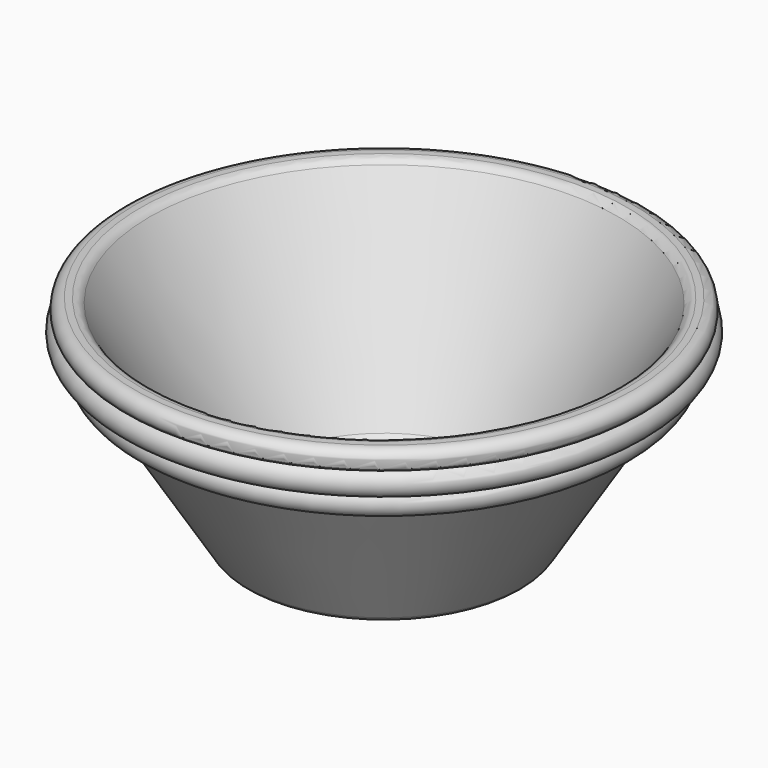
from build123d import *

# Parameters (mm, degrees)
F2_R = 5.08


with BuildPart() as f1:
    # F0 (on Front) → F1 (revolve)
    with BuildSketch(Plane.XZ):
        Polygon((0, 12.7), (0, 0), (63.5, 0), (107.4211733091, 70.2738772946), (114.1521598471, 81.0434557554), (114.8252585009, 82.1204136015), (121.556245039, 92.8899920624), (127, 101.6), (112.0235549529, 101.6), (56.4610549529, 12.7), align=None)
        with BuildLine():
            Line((121.556245039, 92.8899920624), (114.8252585009, 82.1204136015))
            ThreePointArc((114.8252585009, 82.1204136015), (123.5755410004, 84.1397095629), (121.556245039, 92.8899920624))
        make_face()
        with BuildLine():
            Line((114.1521598471, 81.0434557554), (107.4211733091, 70.2738772946))
            ThreePointArc((107.4211733091, 70.2738772946), (116.1714558086, 72.293173256), (114.1521598471, 81.0434557554))
        make_face()
    revolve(axis=Axis((0, 0, 50.8), (0, 0, 1)))

    # F2
    f2_edges = [f1.edges().sort_by_distance(p)[0] for p in [
        (-56.461055, 0, 12.7),
        (-112.023555, 0, 101.6),
        (-127, 0, 101.6),
        (-63.5, 0, 0),
    ]]
    fillet(f2_edges, radius=F2_R)


solid = f1.part
